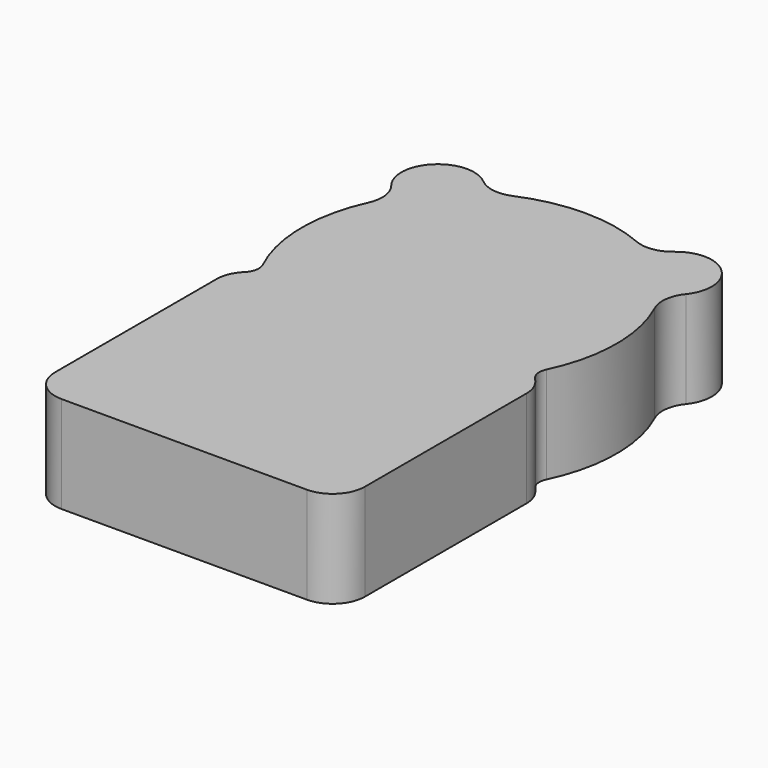
from build123d import *

# Parameters (mm, degrees)
BOX003_W               = 4.5
BOX003_H               = 5
BOX003_DEPTH           = 6
BOX003_PLACEMENT_ANGLE = 315
FILLET004_R            = 2.24
BOX002_W               = 19.2
BOX002_H               = 16.5
BOX002_DEPTH           = 6
FILLET005_R            = 2
BOX006_W               = 4.5
BOX006_H               = 5
BOX006_DEPTH           = 6
BOX006_PLACEMENT_ANGLE = 315
FILLET006_R            = 2.24
CYLINDER_R             = 9.75
CYLINDER_DEPTH         = 6
FILLET007_1_R          = 2
FILLET007_2_R          = 1


with BuildPart() as fillet004:
    # Box003 → Box003 (new body)
    with BuildSketch(Plane.XY):
        with Locations((2.25, 2.5)):
            Rectangle(BOX003_W, BOX003_H)
    extrude(amount=BOX003_DEPTH)


with BuildPart() as fillet004_1:
    # Box003 placement: moved
    add(fillet004.part.moved(Location((13.42, 28.5, 0))).rotate(Axis((13.42, 28.5, 0), (0, 0, 1)), BOX003_PLACEMENT_ANGLE))

    # Fillet004
    fillet004_edges = [fillet004_1.edges().sort_by_distance(p)[0] for p in [
        (16.955534, 32.035534, 3),
        (20.137514, 28.853553, 3),
    ]]
    fillet(fillet004_edges, radius=FILLET004_R)


with BuildPart() as fillet005:
    # Box002 → Box002 (new body)
    with BuildSketch(Plane.XY):
        with Locations((9.6, 8.25)):
            Rectangle(BOX002_W, BOX002_H)
    extrude(amount=BOX002_DEPTH)

    # Fillet005
    fillet005_edges = [fillet005.edges().sort_by_distance(p)[0] for p in [
        (0, 0, 3),
        (0, 16.5, 3),
        (19.2, 0, 3),
        (19.2, 16.5, 3),
    ]]
    fillet(fillet005_edges, radius=FILLET005_R)


with BuildPart() as fillet006:
    # Box006 → Box006 (new body)
    with BuildSketch(Plane.XY):
        with Locations((2.25, 2.5)):
            Rectangle(BOX006_W, BOX006_H)
    extrude(amount=BOX006_DEPTH)


with BuildPart() as fillet006_1:
    # Box006 placement: moved
    add(fillet006.part.moved(Location((2.6, 25.3, 0))).rotate(Axis((2.6, 25.3, 0), (0, 0, -1)), BOX006_PLACEMENT_ANGLE))

    # Fillet006
    fillet006_edges = [fillet006_1.edges().sort_by_distance(p)[0] for p in [
        (-0.935534, 28.835534, 3),
        (2.246447, 32.017514, 3),
    ]]
    fillet(fillet006_edges, radius=FILLET006_R)


with BuildPart() as fillet007:
    # Cylinder → Cylinder (new body)
    with BuildSketch(Plane(origin=(9.6, 21.3, 0), x_dir=(1, 0, 0), z_dir=(0, 0, 1))):
        Circle(CYLINDER_R)
    extrude(amount=CYLINDER_DEPTH)

    # Fusion025: union Fillet004, Fillet005, Fillet006
    add(fillet004_1.part)
    add(fillet005.part)
    add(fillet006_1.part)

    # Fillet007 1
    fillet007_1_edges = [fillet007.edges().sort_by_distance(p)[0] for p in [
        (4.596011, 29.66795, 3),
        (14.593947, 29.673947, 3),
        (17.822898, 26.538937, 3),
        (1.370866, 26.529134, 3),
    ]]
    fillet(fillet007_1_edges, radius=FILLET007_1_R)

    # Fillet007 2
    fillet007_2_edges = [fillet007.edges().sort_by_distance(p)[0] for p in [
        (1.207976, 16.336491, 3),
        (17.992024, 16.336491, 3),
    ]]
    fillet(fillet007_2_edges, radius=FILLET007_2_R)


solid = fillet007.part
